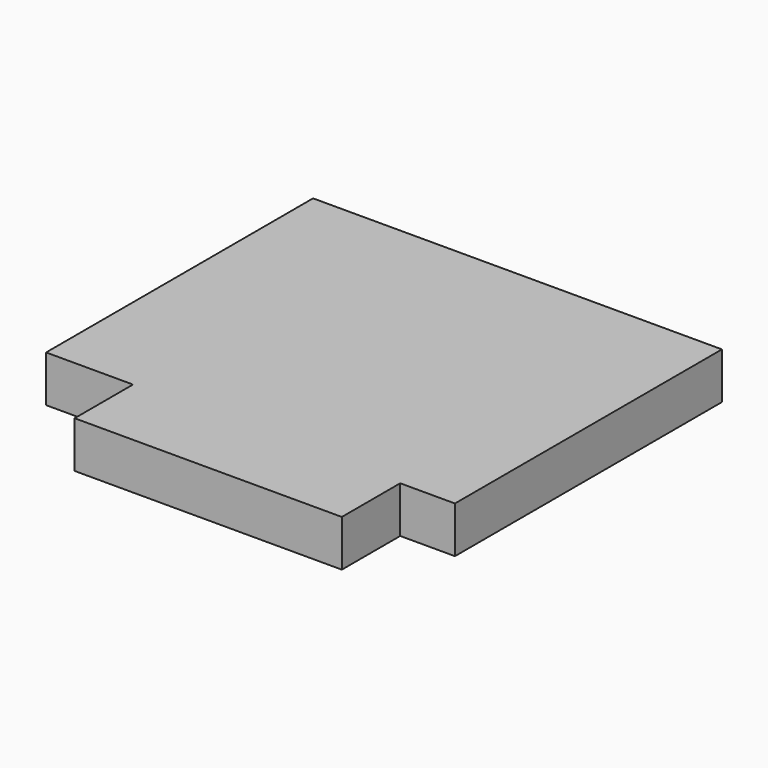
from build123d import *

# Parameters (mm, degrees)
F1_DEPTH = 12.7
F2_T     = -2.54
F5_DEPTH = 10.16
F6_R     = 3.6649817861
F6_R_2   = 3.2562149482
F6_R_3   = 3.4614243846
F7_DEPTH = 10.16


with BuildPart() as f1:
    # F0 (on Top) → F1 (new body)
    with BuildSketch(Plane.XY):
        Polygon((-59.0449757874, 55.7384304702), (-59.0449757874, 0), (-59.0449757874, -35.5757325888), (-35.2621860802, -35.5757325888), (-35.2621860802, -55.5415339768), (37.8478728235, -55.5415339768), (37.8478728235, -35.5757325888), (52.8222173452, -35.5757325888), (52.8222173452, 55.7384304702), align=None)
    extrude(amount=F1_DEPTH)

    # F2
    f2_openings = [f1.faces().sort_by_distance(p)[0] for p in [
        (-2.560717, 3.124655, 0),
    ]]
    offset(amount=F2_T, openings=f2_openings, kind=Kind.INTERSECTION)

    # F6 (on face) → F7 (join)
    with BuildSketch(Plane(origin=(0, 0, 10.16), x_dir=(1, 0, 0), z_dir=(0, 0, -1))):
        with Locations((22.6967390627, -34.4741158187)):
            Circle(F6_R)
        with Locations((-7.9281041399, -30.6381266564)):
            Circle(F6_R_2)
        with Locations((-27.1001067013, -11.839626357)):
            Circle(F6_R_3)
    extrude(amount=F7_DEPTH)


with BuildPart() as f5:
    # F4 (on face) → F5 (new body)
    with BuildSketch(Plane(origin=(0, 0, 10.16), x_dir=(1, 0, 0), z_dir=(0, 0, -1))):
        Polygon((-56.2272109091, 24.3700183928), (-56.2272109091, 21.4338712394), (-31.2699638307, 21.4338712394), (-31.2699638307, 14.9743501097), (0, 14.9743501097), (0, 21.4338712394), (50.0613041222, 21.4338712394), (50.0613041222, 24.3700183928), (-2.7893392835, 24.3700183928), (-2.7893392835, 18.2041106746), (-26.8657431006, 18.2041106746), (-26.8657431006, 24.3700183928), align=None)
    extrude(amount=F5_DEPTH)


solid = Compound([f1.part, f5.part])
